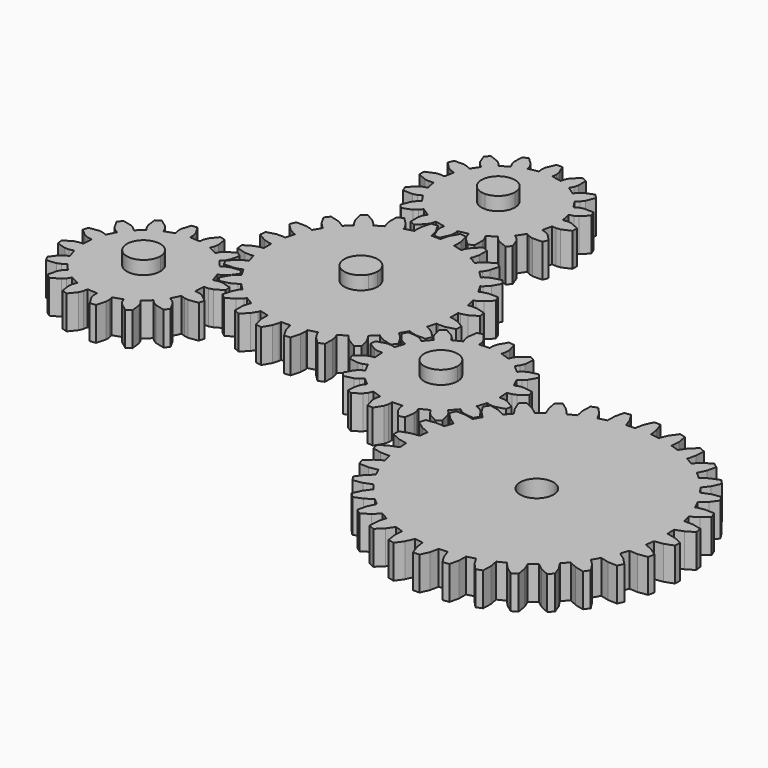
from build123d import *

# Parameters (mm, degrees)
F1_R     = 12.5
F4_DEPTH = 25
F5_DEPTH = 25
F6_DEPTH = 35
F7_DEPTH = 25


with BuildPart() as f4:
    # F1 (on Top) → F4 (new body)
    with BuildSketch(Plane.XY):
        Polygon((68.2752445956, -22.1787570935), (66.602246226, -21.6352953347), (68.445628204, -14.8034191152), (70.1649298463, -15.1752689637), (74.900349035, -15.0345506824), (81.701300142, -13.1988438537), (82.3036956438, -8.6840928804), (76.2219709367, -5.1294708693), (71.6891050411, -3.7521007553), (69.9324577512, -3.6601603332), (69.9448074523, 3.4160287584), (71.7017660378, 3.5018380704), (76.2394112536, 4.8633753934), (82.3335077989, 8.3967496362), (81.7468757414, 12.9135735172), (74.9523752655, 14.7730099932), (70.2174738472, 14.930255294), (68.4968858171, 14.564407883), (66.677361896, 21.4026798337), (68.3522462927, 21.9402960246), (72.3828829152, 24.4298733235), (77.3548236681, 29.4201175157), (75.6191399286, 33.6312019152), (68.5748994927, 33.6687336177), (63.9606363626, 32.5951403632), (62.3933646476, 31.796436236), (58.8659652229, 37.9307727014), (60.3446323559, 38.8835623486), (63.5935798087, 42.3315134559), (67.1045359636, 48.4385526406), (64.3380838935, 52.0569187819), (57.5241562588, 50.26998938), (53.3449893016, 48.0387167537), (52.0378387273, 46.8615914055), (47.0429508307, 51.8739460893), (48.2246319753, 53.1769780976), (50.4704788654, 57.3483320031), (52.2811853959, 64.1559786616), (48.6724938833, 66.9350448175), (42.5532365504, 63.445426777), (39.093966754, 60.2085379926), (38.1360187456, 58.7332054673), (32.014035674, 62.2819935971), (32.8182036892, 63.8464704263), (33.9078991053, 68.4569557411), (33.894957928, 75.5012844469), (29.6899551131, 77.2516581793), (24.6823858855, 72.297166252), (22.1787570935, 68.2752445956), (21.6352953347, 66.602246226), (14.8034194995, 68.4456291272), (15.175269348, 70.1649307695), (15.0345510667, 74.9003499582), (13.1988438537, 81.701300142), (8.6840932647, 82.303696567), (5.1294712535, 76.2219718599), (3.7521011396, 71.6891059643), (3.6601616407, 69.9324582901), (-3.4160283742, 69.9448083755), (-3.5018376861, 71.701766961), (-4.8633750092, 76.2394121769), (-8.3967496362, 82.3335077989), (-12.9135731329, 81.7468766646), (-14.7730096089, 74.9523761887), (-14.930255294, 70.2174738472), (-14.5644074987, 68.4968867403), (-21.4026794494, 66.6773628192), (-21.9402956403, 68.3522472159), (-24.429872016, 72.3828834541), (-29.4201171314, 77.3548245913), (-33.6312006077, 75.6191404676), (-33.6687332334, 68.5749004159), (-32.5951399789, 63.9606372858), (-31.7964358518, 62.3933655709), (-37.9307723172, 58.8659661462), (-38.8835619643, 60.3446332791), (-42.3315130716, 63.5935807319), (-48.4385522563, 67.1045368868), (-52.0569183976, 64.3380848167), (-50.26998938, 57.5241562588), (-48.0387163694, 53.3449902248), (-46.8615910212, 52.0378396505), (-51.8739447818, 47.0429513696), (-53.1769777133, 48.2246328985), (-57.3483316188, 50.4704797886), (-64.1559786616, 52.2811853959), (-66.9350444332, 48.6724948065), (-63.4454254695, 42.5532370893), (-60.2085376083, 39.0939676772), (-58.733205083, 38.1360196688), (-62.2819935971, 32.014035674), (-63.846470042, 32.8182046124), (-68.4569553568, 33.9079000285), (-75.5012844469, 33.894957928), (-77.251657795, 29.6899560363), (-72.2971658677, 24.6823868087), (-68.2752442113, 22.1787580167), (-66.6022458417, 21.6352962579), (-68.4456287429, 14.8034204227), (-70.1649303853, 15.1752702712), (-74.9003486507, 15.0345516057), (-81.7012997577, 13.1988447769), (-82.3036961827, 8.6840941879), (-76.2219714756, 5.1294721768), (-71.68910558, 3.7521020628), (-69.9324573669, 3.6601612564), (-69.9448079912, -3.4160274509), (-71.7017665767, -3.5018367628), (-76.2394117926, -4.8633740859), (-82.3335074147, -8.396748713), (-81.7468762803, -12.9135722097), (-74.9523758044, -14.7730086857), (-70.2174734629, -14.9302543708), (-68.496886356, -14.5644065754), (-66.6773624349, -21.4026785262), (-68.3522468316, -21.9402947171), (-72.3828834541, -24.429872016), (-77.3548232838, -29.4201165925), (-75.6191404676, -33.6312006077), (-68.5748991084, -33.6687326945), (-63.9606369015, -32.5951390557), (-62.3933651866, -31.7964349285), (-58.8659657619, -37.9307713939), (-60.3446328948, -38.8835610411), (-63.5935803476, -42.3315121484), (-67.1045365025, -48.4385513331), (-64.3380844324, -52.0569174744), (-57.5241558745, -50.2699884568), (-53.3449898405, -48.0387154462), (-52.0378392662, -46.861590098), (-47.0429504464, -51.8739451661), (-48.2246325142, -53.1769767901), (-50.4704794043, -57.3483306956), (-52.2811850116, -64.1559777383), (-48.6724944222, -66.93504351), (-42.5532370893, -63.4454254695), (-39.0939672929, -60.2085366851), (-38.1360192845, -58.7332041598), (-32.0140352897, -62.2819926739), (-32.8182042281, -63.8464691188), (-33.9078996442, -68.4569544336), (-33.8949575437, -75.5012835237), (-29.6899547288, -77.2516572561), (-24.6823864244, -72.2971649445), (-22.1787576324, -68.2752432881), (-21.6352949504, -66.6022453028), (-14.8034200384, -68.4456278197), (-15.1752698869, -70.164929462), (-15.0345516057, -74.9003486507), (-13.1988443926, -81.7012988345), (-8.6840928804, -82.3036956438), (-5.1294717925, -76.2219705524), (-3.7521016785, -71.6891046568), (-3.6601612564, -69.9324573669), (3.4160278352, -69.944807068), (3.5018371471, -71.7017656535), (4.8633753934, -76.2394112536), (8.3967490973, -82.3335064914), (12.913572594, -81.7468753571), (14.77300907, -74.9523748812), (14.9302547551, -70.2174725397), (14.5644069597, -68.4968854328), (21.4026789105, -66.6773615117), (21.9402951014, -68.3522459084), (24.4298724003, -72.3828825309), (29.4201165925, -77.3548232838), (33.6312009919, -75.6191395444), (33.6687326945, -68.5748991084), (32.59513944, -63.9606359783), (31.7964353128, -62.3933642634), (37.9307717782, -58.8659648386), (38.8835623486, -60.3446323559), (42.3315125327, -63.5935794244), (48.4385517174, -67.1045355793), (52.0569187819, -64.3380838935), (50.2699888411, -57.5241549513), (48.0387158305, -53.3449889173), (46.8615904823, -52.037838343), (51.8739451661, -47.0429504464), (53.1769771744, -48.224631591), (57.3483310799, -50.4704784811), (64.1559781226, -52.2811840884), (66.9350448175, -48.6724938833), (63.4454258538, -42.5532361661), (60.2085370694, -39.0939663697), (58.7332045441, -38.1360183613), (62.2819939814, -32.0140347508), (63.8464704263, -32.8182036892), (68.4569548179, -33.907898721), (75.5012848312, -33.8949570048), (77.2516581793, -29.6899551131), (72.2971653288, -24.6823855012), align=None)
        Circle(F1_R, mode=Mode.SUBTRACT)
    extrude(amount=F4_DEPTH)


with BuildPart() as f5:
    # F2 (on Top) → F5 (new body)
    with BuildSketch(Plane.XY):
        Polygon((-60.4954257184, -37.3732938909), (-61.5546811444, -35.5386116062), (-62.6139353366, -33.7039314584), (-69.742408899, -34.5015662768), (-72.6587955103, -35.7139230795), (-75.3080384474, -37.6727540378), (-80.1957987021, -32.0993308318), (-77.9079294506, -29.7284320789), (-76.3252810453, -26.9952392063), (-74.6040145493, -20.0318635354), (-77.9654685191, -17.4525291855), (-84.2460763669, -20.9173991897), (-86.4765184018, -23.1535225277), (-88.1744866037, -25.9770682762), (-94.8230454611, -22.6983624855), (-93.6166345763, -19.6324075544), (-93.2004042279, -16.5016133771), (-94.2749328773, -9.4095935792), (-98.3675754532, -8.3129713066), (-102.8441524088, -13.9175794801), (-104.0490845849, -16.8370400143), (-104.5372791762, -20.0954393071), (-111.9344536873, -19.6106042324), (-111.993162958, -16.3163583941), (-112.8067199235, -13.264598254), (-116.5134509724, -7.1236284707), (-120.7142232762, -7.6766706363), (-122.7052513854, -14.5677639302), (-122.701234033, -17.7261026955), (-121.9053284782, -20.9232955149), (-128.924965829, -23.3061398785), (-130.2398615712, -20.2851205051), (-132.159348482, -17.7769989736), (-137.9339699058, -13.5219859568), (-141.6033323383, -15.640495575), (-140.8056969111, -22.768968344), (-139.5933393151, -25.6853555641), (-137.6345097589, -28.3345986857), (-143.2079329649, -33.2223589405), (-145.5788317178, -30.934489689), (-148.312023797, -29.3518418924), (-155.2754002613, -27.6305747876), (-157.8547340024, -30.9920279642), (-154.3898638136, -37.2726372141), (-152.1537406602, -39.5030778468), (-149.3301949117, -41.2010460487), (-152.6089007024, -47.8496049061), (-155.674855449, -46.6431954235), (-158.8056504196, -46.2269644662), (-165.8976702175, -47.3014931156), (-166.9942918813, -51.3941348983), (-161.3896829144, -55.8707124626), (-158.4702237824, -57.0756448232), (-155.2118236962, -57.5638400233), (-155.6966587709, -64.9610145344), (-158.9909054025, -65.0197231964), (-162.0426655426, -65.8332801619), (-168.1836345327, -69.5400118195), (-167.6305923671, -73.7407841233), (-160.7394984643, -75.7318114392), (-157.5811604924, -75.727793478), (-154.3839682817, -74.9318887166), (-152.0011239182, -81.9515260674), (-155.0221424982, -83.2664224183), (-157.530264823, -85.1859087204), (-161.7852772311, -90.9605293508), (-159.6667682217, -94.6298925766), (-152.5382940505, -93.8322569649), (-149.6219074393, -92.6199001622), (-146.9726651109, -90.6610699973), (-142.0849048562, -96.2344932033), (-144.3727741077, -98.6053919561), (-145.9554219043, -101.3385840354), (-147.676689009, -108.3019604996), (-144.3152350392, -110.8812948496), (-138.0346265826, -107.416424052), (-135.8041851565, -105.1803015073), (-134.1062169546, -102.3567557589), (-127.4576580972, -105.6354615495), (-128.6640683732, -108.7014156873), (-129.0802987217, -111.8322098646), (-128.005770681, -118.9242304559), (-123.9131274963, -120.0208519351), (-119.4365505408, -114.4162437616), (-118.2316189734, -111.4967840208), (-117.7434237733, -108.2383839346), (-110.3462492622, -108.7232190093), (-110.2875399916, -112.0174648476), (-109.473983026, -115.0692249877), (-105.7672519772, -121.210194771), (-101.5664796733, -120.6571526054), (-99.5754515641, -113.7660593115), (-99.5794695253, -110.6077213395), (-100.3753742867, -107.4105291289), (-93.3557377293, -105.0276841565), (-92.0408413784, -108.0487027366), (-90.1213544675, -110.5568242681), (-84.3467330438, -114.8118372849), (-80.67737122, -112.69332846), (-81.4750060385, -105.5648548977), (-82.6873628411, -102.6484682864), (-84.6461931906, -99.999224556), (-79.0727699846, -95.1114643012), (-76.7018712318, -97.3993335527), (-73.9686789679, -98.9819827514), (-67.0053026883, -100.7032484541), (-64.4259689471, -97.3417952775), (-67.8908389513, -91.0611874297), (-70.1269622894, -88.8307453949), (-72.9505080378, -87.1327771929), (-69.6718022472, -80.4842183356), (-66.6058467072, -81.690628427), (-63.47505253, -82.1068587754), (-56.3830333408, -81.0323309194), (-55.2864110682, -76.9396883434), (-60.8910200351, -72.4631107791), (-63.8104791672, -71.2581784185), (-67.0688798621, -70.7699840117), (-66.584043994, -63.3728101094), (-63.2897981558, -63.3141008387), (-60.2380374069, -62.5005430798), (-54.0970684169, -58.7938114222), (-54.6501105825, -54.5930391184), (-61.5412044852, -52.6020118025), (-64.6995424571, -52.6060297637), (-67.8967346678, -53.4019345251), (-70.2795790314, -46.3822971743), (-67.2585610601, -45.0674016167), (-64.7504381265, -43.1479145213), align=None)
        with BuildLine():
            ThreePointArc((-98.6403514748, -64.1669116208), (-123.2144243058, -67.4021496756), (-100.3150339181, -57.916911637))
            ThreePointArc((-100.3150339181, -57.916911637), (-99.0662786437, -60.9316735661), (-98.6403514748, -64.1669116208))
        make_face(mode=Mode.SUBTRACT)
    extrude(amount=F5_DEPTH)


with BuildPart() as f5b:
    # F2 (on Top) → F5, piece 2 (new body)
    with BuildSketch(Plane.XY):
        Polygon((-2.1185090734, 71.0772224304), (1.06e-07, 71.077223396), (2.1185068179, 71.0772243617), (4.9919715834, 77.6494809661), (5.4002330995, 80.78132426), (5.0284571965, 84.0550514235), (12.2990634063, 85.5012643687), (13.2083873303, 82.3344620999), (14.7840775887, 79.5972519393), (19.9539045678, 74.6249035917), (23.8684006247, 76.2463409483), (24.0080391041, 83.4179418978), (23.1867205048, 86.4676230307), (21.5904422588, 89.3498795026), (27.7541641937, 93.4683474763), (29.8061536086, 90.8905875371), (32.3093857259, 88.9647243929), (38.9885193598, 86.3492836014), (41.9845433942, 89.3453049045), (39.3690988154, 96.0244383567), (37.4432379155, 98.5276704981), (34.865478648, 100.5796590626), (38.9839453948, 106.7433825681), (41.8662006124, 105.1471033689), (44.9158809028, 104.3257842984), (52.0874822635, 104.46542266), (53.7089198506, 108.3799192734), (48.7365720528, 113.5497468426), (45.9993617721, 115.125437096), (42.8325587923, 116.0347590763), (44.2787737156, 123.3053655292), (47.5525011094, 122.9335889585), (50.6843415268, 123.3418526199), (57.2566016047, 126.2153149616), (57.2565996734, 130.452330853), (50.6843434516, 133.3257946946), (47.5524992338, 133.734055828), (44.2787726116, 133.3622812315), (42.8325596664, 140.6328874413), (45.9993619351, 141.5422113653), (48.7365711718, 143.1179012411), (53.7089204434, 148.2877286029), (52.0874834694, 152.2022237358), (44.9158812134, 152.3418627564), (41.866201387, 151.520543616), (38.9839449152, 149.92426537), (34.8654769415, 156.0879873049), (37.4432355741, 158.139977261), (39.3690996422, 160.643209761), (41.9845404337, 167.3223433948), (38.9885195132, 170.3183665053), (32.3093851371, 167.7029215439), (29.8061535369, 165.7770619506), (27.7541640485, 163.1993023003), (21.590440543, 167.3177690472), (23.1867206662, 170.2000246475), (24.0080397367, 173.2497049378), (23.8684004512, 180.4213059158), (19.9539038377, 182.042743503), (14.7840766512, 177.0703947813), (13.2083873217, 174.3331848833), (12.2990649587, 171.1663828273), (5.0284585058, 172.6125977506), (5.4002341526, 175.8863247617), (4.9919714152, 179.0181655618), (2.1185094561, 185.5904247158), (-2.1185068179, 185.5904237084), (-4.9919712007, 179.0181661801), (-5.4002327169, 175.8863228862), (-5.0284571965, 172.6125966466), (-12.2990634063, 171.1663837014), (-13.2083873303, 174.3331859702), (-14.7840772061, 177.0703952069), (-19.9539045678, 182.0427444784), (-23.8684006247, 180.4213071218), (-24.0080387214, 173.2497052484), (-23.1867205048, 170.2000250394), (-21.5904422588, 167.3177685675), (-27.7541641937, 163.1993005938), (-29.8061532259, 165.7770596091), (-32.3093853432, 167.7029227533), (-38.9885193598, 170.3183644687), (-41.9845430115, 167.3223422417), (-39.3690984327, 160.6432087895), (-37.4432379155, 158.1399775719), (-34.8654782653, 156.0879880836), (-38.9839450122, 149.9242645781), (-41.8662002297, 151.5205437774), (-44.9158805201, 152.3418628478), (-52.0874818808, 152.2022244862), (-53.7089194679, 148.2877278728), (-48.7365716701, 143.1179003036), (-45.9993617721, 141.5422109741), (-42.8325597162, 140.6328886111), (-44.2787737156, 133.3622825409), (-47.5525007267, 133.7340581877), (-50.6843411441, 133.3257945263), (-57.256601222, 130.4523321846), (-57.2565996734, 126.2153172171), (-50.684343069, 123.3418524516), (-47.552499775, 122.9335909355), (-44.2787722289, 123.3053659147), (-42.8325592837, 116.0347597049), (-45.9993615524, 115.1254357809), (-48.7365720957, 113.5497464463), (-53.7089200607, 108.3799185433), (-52.0874830868, 104.4654234104), (-44.9158821373, 104.325784931), (-41.8662010044, 105.1471035303), (-38.9839445325, 106.7433817762), (-34.8654765588, 100.5796598413), (-37.4432361153, 98.5276695025), (-39.3690992595, 96.0244373852), (-41.9845404337, 89.3453046753), (-38.9885191305, 86.3492806409), (-32.3093847544, 88.9647256023), (-29.8061531542, 90.8905851956), (-27.7541640485, 93.4683457698), (-21.5904414669, 89.3498786402), (-23.1867206662, 86.4676234226), (-24.008039354, 83.4179422084), (-23.8684000685, 76.2463412304), (-19.9539034551, 74.6249036432), (-14.7840762685, 79.5972523649), (-13.208386939, 82.3344622629), (-12.299064576, 85.5012643189), (-5.0284581231, 84.0550493956), (-5.4002341526, 80.7813233084), (-4.9919710325, 77.6494815844), align=None)
        with BuildLine():
            ThreePointArc((12.5000001913, 128.3338235731), (8.8388349496, 119.4949888017), (1.727e-07, 115.8338235731))
            ThreePointArc((1.727e-07, 115.8338235731), (-8.8388345669, 137.1726583445), (12.5000001913, 128.3338235731))
        make_face(mode=Mode.SUBTRACT)
    extrude(amount=F5_DEPTH)


with BuildPart() as f5c:
    # F2 (on Top) → F5, piece 3 (new body)
    with BuildSketch(Plane.XY):
        Polygon((158.9909056613, -65.0197235321), (155.6966592134, -64.9610128087), (155.211822291, -57.5638390443), (158.4702215992, -57.0756439218), (161.3896840649, -55.8707128888), (166.9942900408, -51.3941340128), (165.8976705078, -47.3014903066), (158.8056489735, -46.2269650279), (155.674856889, -46.6431935512), (152.6089020386, -47.849604149), (149.3301942744, -41.2010455688), (152.1537402213, -39.5030789298), (154.3898635461, -37.2726378602), (157.8547338579, -30.9920297152), (155.2753991413, -27.6305752674), (148.3120232342, -29.3518409921), (145.5788312974, -30.9344896345), (143.2079340029, -33.2223594822), (137.6345114448, -28.3345983843), (139.593342105, -25.6853554511), (140.8056956116, -22.7689702583), (141.6033342658, -15.6404948997), (137.9339708934, -13.5219887571), (132.1593491074, -17.776997554), (130.2398626161, -20.2851226491), (128.9249654195, -23.3061413587), (121.9053292683, -20.9232954037), (122.7012327842, -17.7261022282), (122.7052510636, -14.5677636949), (120.714222749, -7.6766700893), (116.5134520339, -7.1236281329), (112.8067210886, -13.2645975012), (111.9931632937, -16.3163581354), (111.9344525703, -19.6106045833), (104.537278806, -20.0954415057), (104.0490828225, -16.8370410755), (102.8441517895, -13.9175786098), (98.3675737745, -8.3129737559), (94.2749301988, -9.4095922974), (93.2004047895, -16.5016148232), (93.6166323214, -19.6324067772), (94.8230439106, -22.6983617581), (88.1744854609, -25.9770685308), (86.476518822, -23.1535225839), (84.2460767609, -20.9173991286), (77.9654684854, -17.4525298082), (74.6040140375, -20.0318645249), (76.3252807537, -26.9952405624), (77.9079293961, -29.7284324993), (80.1957992439, -32.0993297938), (75.3080371545, -37.6727522213), (72.6587952127, -35.7139216916), (69.742409159, -34.5015670631), (62.6139347918, -33.7039285395), (61.5546810384, -35.5386117898), (60.4954285187, -37.3732929032), (64.7504373156, -43.1479146893), (67.2585624108, -45.0674011806), (70.2795812509, -46.3822973857), (67.8967352958, -53.4019335369), (64.6995421203, -52.606030021), (61.5412034565, -52.602012733), (54.6501099814, -54.5930400563), (54.0970678945, -58.7938117628), (60.2380372629, -62.5005427081), (63.289797897, -63.3141005029), (66.5840443449, -63.3728112264), (67.0688812673, -70.7699849907), (63.8104809677, -71.2581799827), (60.891018502, -72.4631110158), (55.2864135175, -76.9396900222), (56.3830320591, -81.0323335979), (63.4750535934, -82.1068588766), (66.6058466693, -81.6906304839), (69.6718005282, -80.4842197556), (72.9505082925, -87.1327783357), (70.1269623456, -88.8307449747), (67.8908390207, -91.0611860443), (64.4259687089, -97.3417941893), (67.0053034256, -100.7032486372), (73.9686793326, -98.9819829124), (76.7018722609, -97.3993344005), (79.072769686, -95.1114635614), (84.6461921134, -99.9992256507), (82.6873604618, -102.6484684535), (81.4750069552, -105.5648536462), (80.6773683011, -112.6933290048), (84.3467326649, -114.8118352779), (90.1213534594, -110.5568263505), (92.0408400813, -108.0487002639), (93.3557371473, -105.0276825458), (100.3753732985, -107.4105285008), (99.5794697826, -110.6077216764), (99.5754526252, -113.7660593487), (101.5664798179, -120.6571538152), (105.767250533, -121.2101957717), (109.4739826002, -115.0692255424), (110.2875392731, -112.0174657691), (110.3462499966, -108.7232193213), (117.7434237609, -108.2383823988), (118.2316198749, -111.4967818375), (119.4365507774, -114.4162452947), (123.9131297838, -120.0208502792), (128.0057723681, -118.9242316071), (129.0802977773, -111.8322090813), (128.6640702455, -108.7014171273), (127.4576596477, -105.635462277), (134.1062182279, -102.3567545128), (135.8041847363, -105.1803014511), (138.034625806, -107.4164247759), (144.3152340815, -110.8812940963), (147.6766885293, -108.3019593796), (145.9554218131, -101.3385833421), (144.3727731707, -98.6053914053), (142.084903323, -96.2344941107), (146.9726654123, -90.6610716832), (149.6219083456, -92.6199023434), (152.5382934079, -93.8322568414), (159.666767775, -94.6298953651), (161.7852750396, -90.9605311318), (157.5302652513, -85.1859092153), (155.0221401561, -83.266422724), (152.0011223074, -81.9515266493), (154.3839682625, -74.9318904981), (157.581161438, -75.727794014), (160.7394991103, -75.7318111715), (167.6305935769, -73.7407839788), (168.1836356638, -69.5400122722), (162.042665304, -65.8332811964), align=None)
        with BuildLine():
            ThreePointArc((123.6403512834, -64.1669119523), (107.9051132106, -76.2409847785), (100.3150337454, -57.9169119361))
            ThreePointArc((100.3150337454, -57.9169119361), (114.3755893562, -52.0928391261), (123.6403512834, -64.1669119523))
        make_face(mode=Mode.SUBTRACT)
    extrude(amount=F5_DEPTH)


with BuildPart() as f6:
    # F0 (on Top) → F6 (new body)
    with BuildSketch(Plane.XY):
        with BuildLine():
            ThreePointArc((1.86e-08, 12.5), (-10.825317538, 6.2500000161), (-10.8253175566, -6.2499999839))
            Line((-10.8253175566, -6.2499999839), (0, 0))
            Line((0, 0), (1.86e-08, 12.5))
        make_face()
        with BuildLine():
            Line((1.86e-08, 12.5), (0, 0))
            Line((0, 0), (10.825317538, -6.2500000161))
            ThreePointArc((10.825317538, -6.2500000161), (12.0740728262, -3.2352380728), (12.5, 0))
            ThreePointArc((12.5, 0), (8.8388347714, 8.8388347582), (1.86e-08, 12.5))
        make_face()
        with BuildLine():
            Line((0, 0), (-10.8253175566, -6.2499999839))
            ThreePointArc((-10.8253175566, -6.2499999839), (-1.86e-08, -12.5), (10.825317538, -6.2500000161))
            Line((10.825317538, -6.2500000161), (0, 0))
        make_face()
    extrude(amount=F6_DEPTH)


with BuildPart() as f6b:
    # F0 (on Top) → F6, piece 2 (new body)
    with BuildSketch(Plane.XY):
        with BuildLine():
            ThreePointArc((-98.6403514748, -64.1669116208), (-99.0662786437, -60.9316735661), (-100.3150339181, -57.916911637))
            ThreePointArc((-100.3150339181, -57.916911637), (-123.2144243058, -67.4021496756), (-98.6403514748, -64.1669116208))
        make_face()
    extrude(amount=F6_DEPTH)


with BuildPart() as f6c:
    # F0 (on Top) → F6, piece 3 (new body)
    with BuildSketch(Plane.XY):
        with BuildLine():
            ThreePointArc((123.6403512834, -64.1669119523), (114.3755893562, -52.0928391261), (100.3150337454, -57.9169119361))
            ThreePointArc((100.3150337454, -57.9169119361), (107.9051132106, -76.2409847785), (123.6403512834, -64.1669119523))
        make_face()
    extrude(amount=F6_DEPTH)


with BuildPart() as f6d:
    # F0 (on Top) → F6, piece 4 (new body)
    with BuildSketch(Plane.XY):
        with BuildLine():
            ThreePointArc((12.5000001913, 128.3338235731), (-8.8388345669, 137.1726583445), (1.727e-07, 115.8338235731))
            ThreePointArc((1.727e-07, 115.8338235731), (8.8388349496, 119.4949888017), (12.5000001913, 128.3338235731))
        make_face()
    extrude(amount=F6_DEPTH)


with BuildPart() as f7:
    # F3 (on Top) → F7 (new body)
    with BuildSketch(Plane.XY):
        Polygon((340.0755162941, -138.2156576266), (339.8522790948, -138.2223998205), (339.432316826, -131.7087240812), (339.6545702153, -131.6867449537), (345.6069605179, -129.5726256502), (351.5586756267, -125.9284181418), (350.7931218812, -121.2606098814), (343.9891617191, -119.7084267025), (337.6733048012, -119.6063859469), (337.4556738304, -119.6565513234), (335.7730226975, -113.3499641922), (335.9867197012, -113.2850494949), (341.4122907712, -110.050297909), (346.5386975495, -105.3149910756), (344.877207838, -100.8862237284), (337.9011685834, -100.691251891), (331.6867609934, -101.823334867), (331.4830971115, -101.9149967824), (328.6024253775, -96.0578572984), (328.7993521556, -95.9524979638), (333.4896033901, -91.7214242475), (337.5936936845, -86.076993408), (335.1001195881, -82.0574662332), (328.2200841644, -83.227197698), (322.345945917, -85.5499006643), (322.164077798, -85.6795305818), (318.1960844625, -80.4969269887), (318.3686738512, -80.3551736863), (322.1433632373, -75.2903775115), (325.0674210967, -68.9537333407), (321.837589052, -65.4979098266), (315.3179549156, -67.9873951133), (310.0098235115, -71.4114532391), (309.8567382078, -71.5740763635), (304.9539139858, -67.2651709617), (305.095530149, -67.092471622), (307.8095984843, -61.3885885332), (309.4412530377, -54.6032467917), (305.5992852218, -51.8439349843), (299.6905995009, -55.5575017519), (295.152460626, -59.9513332064), (295.0340438018, -60.1406948038), (289.3847990348, -56.8710792091), (289.4900046806, -56.6740699311), (291.0391493499, -50.5502943771), (291.3156985953, -43.577012638), (287.0092359762, -41.6202508416), (281.9385633905, -46.4151915911), (278.3448189654, -51.6099438365), (278.2656220043, -51.818768514), (272.087055898, -49.7140887406), (272.1518028906, -49.5003420882), (272.4764904839, -43.1920111767), (271.3873072173, -36.298767385), (266.7818488392, -35.2197536018), (262.7440538416, -40.9117982835), (260.2328098384, -46.7078410221), (260.1958716497, -46.9281018617), (253.7254231335, -46.0692445147), (253.7472246372, -45.846972162), (252.8349811562, -39.5965108616), (250.4219190741, -33.0482061759), (245.6944501177, -32.8884061912), (242.8447029973, -39.2588150857), (241.5124623915, -45.433407348), (241.5192055848, -45.6566445811), (235.0055288461, -46.0766068161), (234.9835496848, -45.8543544263), (232.8694314146, -39.901963158), (229.2252239062, -33.9502480493), (224.5574146125, -34.7158027604), (223.0052314674, -41.5197619231), (222.9031907118, -47.8356188409), (222.9533560883, -48.0532498118), (216.6467689571, -49.7359009447), (216.581854226, -49.5222049404), (213.3471026739, -44.096632871), (208.6117958406, -38.9702260927), (204.1830284933, -40.6317158042), (203.9880566559, -47.6077550587), (205.1201396319, -53.8221626488), (205.2118015473, -54.0258265306), (199.3546620633, -56.9064982646), (199.2493026949, -56.709572486), (195.0182290124, -52.0193202521), (189.3737981729, -47.9152299577), (185.3542709982, -50.4088040541), (186.5240024629, -57.2888394777), (188.8467054292, -63.1629777252), (188.9763363461, -63.344845878), (183.7937317536, -67.3128391797), (183.6519784512, -67.140249791), (178.5871822426, -63.3655614043), (172.2505381056, -60.4415025454), (168.7947145915, -63.6713345902), (171.2841998445, -70.190969726), (174.7082579702, -75.49910113), (174.8708811284, -75.6521854343), (170.5619767261, -80.5550096901), (170.3892773525, -80.4133945263), (164.6853932643, -77.6993261573), (157.9000515228, -76.0676716038), (155.1407397492, -79.9096384204), (158.8543064831, -85.8183251407), (163.2481379713, -90.3564630162), (163.4374995687, -90.4748798404), (161.7517951014, -93.3874424437), (160.1678849734, -96.1241246411), (159.970874696, -96.0189189616), (153.8471001077, -94.4697753255), (146.8738173691, -94.1932260463), (144.9170556065, -98.499687666), (149.711996356, -103.5703602517), (154.9067486014, -107.1641046768), (155.1155732789, -107.2433016378), (153.010894505, -113.4218677779), (152.7971468531, -113.3571207515), (146.4888159416, -113.0324331583), (139.5955721161, -114.1216174243), (138.5165583667, -118.727074803), (144.2086030484, -122.7648698005), (150.0046457532, -125.2761148032), (150.2249066266, -125.3130519925), (149.3660492796, -131.7835005087), (149.1437769269, -131.761699005), (142.8933166259, -132.6739425198), (136.345010907, -135.0870055675), (136.1852109561, -139.8144735244), (142.5556208501, -142.6642206786), (148.7302121129, -143.9964612506), (148.9534493122, -143.9897190567), (149.373411581, -150.503394796), (149.1511591574, -150.5253749567), (143.1987678891, -152.639493227), (137.2470527804, -156.2837007354), (138.0126075253, -160.9515090296), (144.816566688, -162.5036921747), (151.1324236058, -162.6057329303), (151.3500555761, -162.5555675877), (153.0327057096, -168.8621546851), (152.8190097053, -168.9270694162), (147.3934376359, -172.1618209682), (142.2670308576, -176.8971278016), (143.9285205353, -181.3258961482), (150.9045608231, -181.52086702), (157.1189674137, -180.3887840102), (157.3226322949, -180.2971221286), (160.2033030295, -186.1542615788), (160.0063772509, -186.2596209472), (155.3161249832, -190.4906956292), (151.2120347226, -196.1351254692), (153.705608819, -200.154652644), (160.5856442089, -198.9849221787), (166.4597834557, -196.6622192461), (166.6416516085, -196.5325883292), (170.6096439446, -201.7151918886), (170.4370545559, -201.8569451909), (166.6623661692, -206.9217413995), (163.7383073103, -213.2583855365), (166.9681393551, -216.7142090507), (173.4877744571, -214.2247247971), (178.7959058949, -210.8006656719), (178.9489901992, -210.6380425137), (183.8518154207, -214.9469479493), (183.7101992575, -215.119647289), (180.9961309222, -220.8235303778), (179.3644763687, -227.6088721193), (183.2064431853, -230.368183893), (189.1151299056, -226.6546171591), (193.6532677473, -222.2607866702), (193.7716846053, -222.0714240734), (199.4209293722, -225.3410396681), (199.3157237265, -225.5380489461), (197.7665800566, -231.6618245339), (197.4900308112, -238.635106273), (201.7964924309, -240.5918680356), (206.8671650166, -235.7969272861), (210.4609094417, -230.6021750408), (210.5401064027, -230.3933503633), (216.718672509, -232.4980301366), (216.6539255164, -232.711776789), (216.3292379232, -239.0201077005), (217.4184221554, -245.9133525255), (222.0238805673, -246.9923653092), (226.0616755649, -241.3003206275), (228.5729195343, -235.5042788884), (228.6098567574, -235.2840170155), (235.080306273, -236.1428743963), (235.0585037699, -236.3651467152), (235.9707472509, -242.6156080157), (238.3838102986, -249.1639137346), (243.111279255, -249.3237137193), (245.9610254097, -242.9533037915), (247.2932660155, -236.7787115292), (247.2865238216, -236.5554743299), (253.8001995609, -236.1355120611), (253.8221796879, -236.3577654842), (255.9362979919, -242.310155753), (259.5805055003, -248.2618708618), (264.2483147602, -247.49631715), (265.8004969396, -240.6923569542), (265.9025376952, -234.3765000363), (265.8523723188, -234.1588690655), (272.15895945, -232.4762179326), (272.2238741811, -232.6899139369), (275.4586257331, -238.1154860063), (280.1939325665, -243.2418927846), (284.6227009131, -241.5804031068), (284.8176727506, -234.6043638523), (283.6855887751, -228.3899562285), (283.5939268597, -228.1862923466), (289.4510663437, -225.3056206126), (289.5564256784, -225.5025473907), (293.7875003941, -230.1927986589), (299.4319302341, -234.2968889196), (303.4514584083, -231.8033148569), (302.2817269436, -224.9232794333), (299.9590239772, -219.0491411859), (299.8293930603, -218.8672730331), (305.0119966535, -214.8992796976), (305.1537509553, -215.07186912), (310.2185471301, -218.8465585062), (316.5551903014, -221.7706163318), (320.0110138156, -218.5407842871), (317.521529562, -212.0211491851), (314.0974704368, -206.7130177472), (313.9348472786, -206.5599334429), (318.2437526804, -201.6571092209), (318.4164520202, -201.7987253841), (324.120335109, -204.5127937194), (330.9056768842, -206.1444472734), (333.6649886579, -202.3024804569), (329.9514218902, -196.393794736), (325.5575914351, -191.8556558948), (325.3682288383, -191.7372390369), (328.6378444331, -186.0879942699), (328.834853711, -186.1931999157), (334.9586292988, -187.7423435856), (341.9319110041, -188.0188938304), (343.8886728006, -183.7124312113), (339.093732051, -178.6417586256), (333.8989808051, -175.0480142342), (333.6901551282, -174.9688172394), (335.7948349015, -168.7902511331), (336.0085815539, -168.8549981257), (342.3169124654, -169.179685719), (349.2101572904, -168.0905014868), (350.2891700403, -163.4850440742), (344.5971253587, -159.4472490767), (338.8010836195, -156.9360051072), (338.5808217804, -156.8990668848), (339.4396791274, -150.4286183686), (339.6619514801, -150.4504198723), (345.9124127806, -149.5381763913), (352.4607184995, -147.1251133436), (352.6205184504, -142.3976453866), (346.2501085564, -139.5478982324), align=None)
        with BuildLine():
            ThreePointArc((256.9028642035, -141.1060594386), (241.1676261397, -153.1801322672), (233.5775466562, -134.8560594386))
            ThreePointArc((233.5775466562, -134.8560594386), (247.6381022673, -129.03198661), (256.9028642035, -141.1060594386))
        make_face(mode=Mode.SUBTRACT)
    extrude(amount=F7_DEPTH)


solid = Compound([f4.part, f5.part, f5b.part, f5c.part, f6.part, f6b.part, f6c.part, f6d.part, f7.part])
